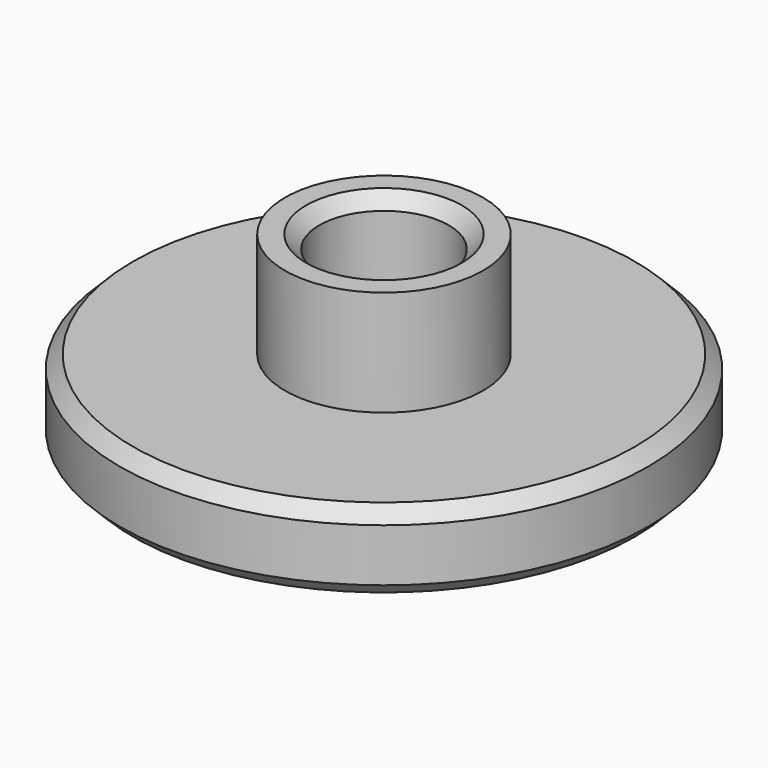
from build123d import *

# Parameters (mm, degrees)
F0_R     = 10
F0_R_2   = 2.45
F1_DEPTH = 3
F2_R     = 3.75
F2_R_2   = 2.45
F3_DEPTH = 4
F4_SIZE  = 0.5


with BuildPart() as f1:
    # F0 (on Top) → F1 (new body)
    with BuildSketch(Plane.XY):
        Circle(F0_R)
        Circle(F0_R_2, mode=Mode.SUBTRACT)
    extrude(amount=F1_DEPTH)

    # F2 (on face) → F3 (join)
    with BuildSketch(Plane.XY.offset(3)):
        Circle(F2_R)
        Circle(F2_R_2, mode=Mode.SUBTRACT)
    extrude(amount=F3_DEPTH)

    # F4
    f4_edges = [f1.edges().sort_by_distance(p)[0] for p in [
        (-10, 0, 3),
        (-2.45, 0, 7),
        (-10, 0, 0),
        (-2.45, 0, 0),
    ]]
    chamfer(f4_edges, length=F4_SIZE)


solid = f1.part
